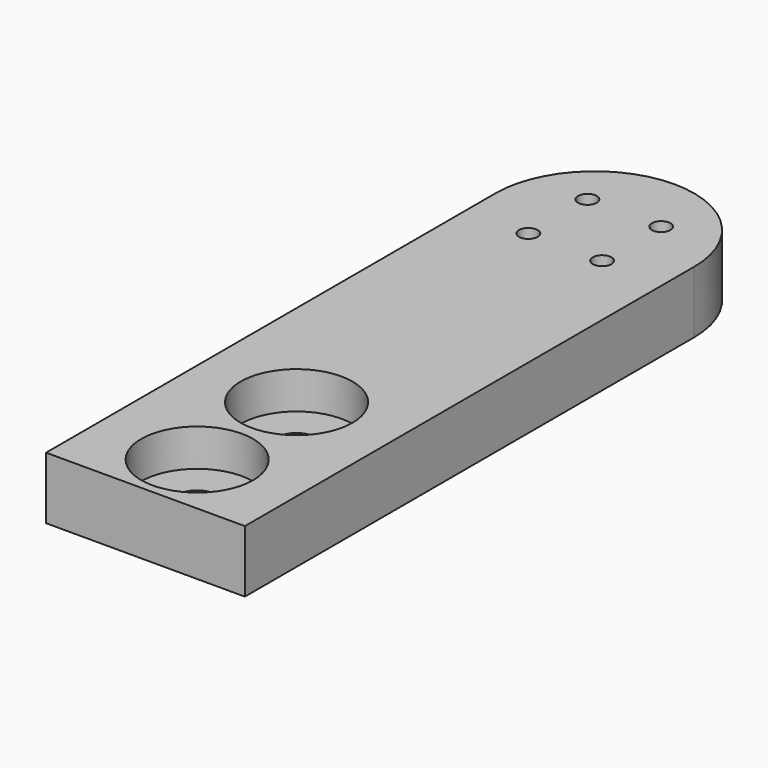
from build123d import *

# Parameters (mm, degrees)
F0_R     = 0.75
F1_DEPTH = 5
F2_R     = 1.575
F3_DEPTH = 5.001
F4_R     = 4.5
F5_DEPTH = 3
F6_R     = 2
F7_DEPTH = 2
F8_W     = 43.103866
F8_H     = 7.897038
F9_DEPTH = 16.001


with BuildPart() as f1:
    # F0 (on Top) → F1 (new body)
    with BuildSketch(Plane.XY):
        with BuildLine():
            Line((-8, 35), (-8, 0))
            Line((-8, 0), (-8, -35))
            ThreePointArc((-8, -35), (0, -43), (8, -35))
            Line((8, -35), (8, 0))
            Line((8, 0), (8, 35))
            ThreePointArc((8, 35), (0, 43), (-8, 35))
        make_face()
        with Locations((-2.969848, -37.969848)):
            Circle(F0_R, mode=Mode.SUBTRACT)
        with Locations((-2.969848, -32.030152)):
            Circle(F0_R, mode=Mode.SUBTRACT)
        with Locations((2.969848, -37.969848)):
            Circle(F0_R, mode=Mode.SUBTRACT)
        with Locations((2.969848, -32.030152)):
            Circle(F0_R, mode=Mode.SUBTRACT)
        with Locations((-2.969848, 32.030152)):
            Circle(F0_R, mode=Mode.SUBTRACT)
        with Locations((-2.969848, 37.969848)):
            Circle(F0_R, mode=Mode.SUBTRACT)
        with Locations((2.969848, 32.030152)):
            Circle(F0_R, mode=Mode.SUBTRACT)
        with Locations((2.969848, 37.969848)):
            Circle(F0_R, mode=Mode.SUBTRACT)
    extrude(amount=F1_DEPTH)

    # F2 (on face) → F3 (cut, through all)
    with BuildSketch(Plane.XY.offset(5)):
        with Locations((0, 5)):
            Circle(F2_R)
        with Locations((0, -5)):
            Circle(F2_R)
    extrude(amount=-F3_DEPTH, mode=Mode.SUBTRACT)

    # F4 (on face) → F5 (cut)
    with BuildSketch(Plane.XY.offset(5)):
        with Locations((0, 5)):
            Circle(F4_R)
        with Locations((0, -5)):
            Circle(F4_R)
    extrude(amount=-F5_DEPTH, mode=Mode.SUBTRACT)

    # F6 (on face) → F7 (cut)
    with BuildSketch(Plane(origin=(0, 0, 0), x_dir=(1, 0, 0), z_dir=(0, 0, -1))):
        with Locations((-2.969848, 37.969848)):
            Circle(F6_R)
        with Locations((2.969848, 37.969848)):
            Circle(F6_R)
        with Locations((2.969848, 32.030152)):
            Circle(F6_R)
        with Locations((-2.969848, 32.030152)):
            Circle(F6_R)
        with Locations((-2.969848, -32.030152)):
            Circle(F6_R)
        with Locations((-2.969848, -37.969848)):
            Circle(F6_R)
        with Locations((2.969848, -37.969848)):
            Circle(F6_R)
        with Locations((2.969848, -32.030152)):
            Circle(F6_R)
    extrude(amount=-F7_DEPTH, mode=Mode.SUBTRACT)

    # F8 (on face) → F9 (cut, through all)
    with BuildSketch(Plane.YZ.offset(8)):
        with Locations((-31.750295, 3.948519)):
            Rectangle(F8_W, F8_H)
    extrude(amount=-F9_DEPTH, mode=Mode.SUBTRACT)


solid = f1.part
